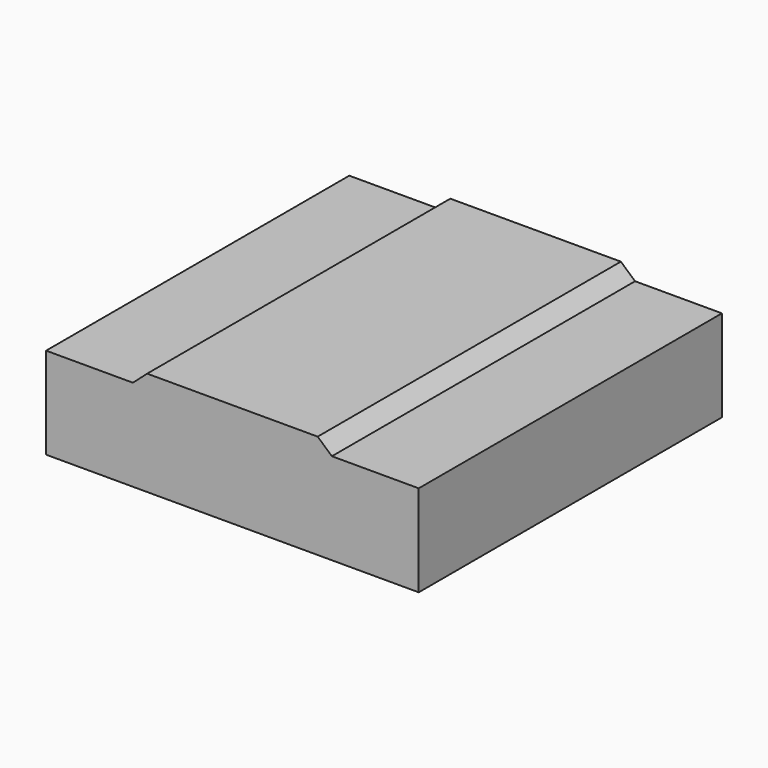
from build123d import *

# Parameters (mm, degrees)
EXTRUDE016_DEPTH = 60
BOX014_W         = 59
BOX014_H         = 60
BOX014_DEPTH     = 14.5


with BuildPart() as cpu_cooler_top:
    # Sketch001005021 (on Face4 of Box014) → Extrude016 (new body)
    with BuildSketch(Plane(origin=(44.5, -45.25, -18), x_dir=(-1, 0, 0), z_dir=(0, 1, 0))):
        Polygon((-45.25, 14.5), (-13.75, 14.5), (-16, 16.5), (-43, 16.5), align=None)
    extrude(amount=-EXTRUDE016_DEPTH)


with BuildPart() as cpu_cooler:
    # Box014 → Box014 (new body)
    with BuildSketch(Plane(origin=(44.5, -105.25, -18), x_dir=(1, 0, 0), z_dir=(0, 0, 1))):
        with Locations((29.5, 30)):
            Rectangle(BOX014_W, BOX014_H)
    extrude(amount=BOX014_DEPTH)

    # Fusion036: union CPU-Cooler-Top
    add(cpu_cooler_top.part)


solid = cpu_cooler.part
